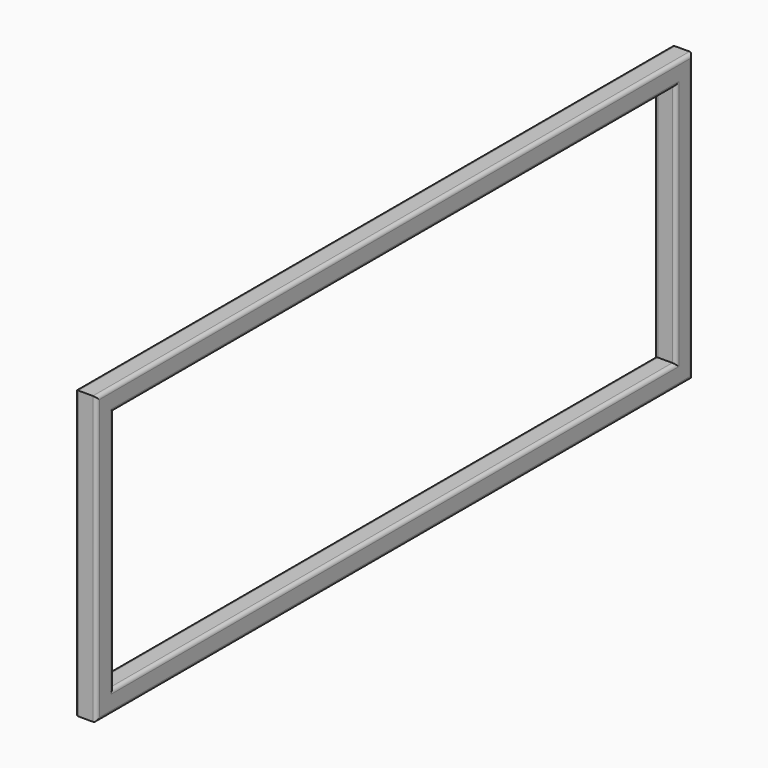
from build123d import *


with BuildPart() as f2:
    # F2: sweep along a path in F0
    with BuildLine(Plane.YZ) as f2_path:
        Line((-660.4, -254), (660.4, -254))
        Line((660.4, -254), (660.4, 254))
        Line((660.4, 254), (-660.4, 254))
        Line((-660.4, 254), (-660.4, -254))
    # F1 (on Front) → F2 (sweep)
    with BuildSketch(Plane.XZ):
        with BuildLine():
            Line((-12.7, -254), (0, -254))
            Line((0, -254), (12.7, -254))
            ThreePointArc((12.7, -254), (17.1901280605, -252.1401280605), (19.05, -247.65))
            Line((19.05, -247.65), (19.05, -222.25))
            ThreePointArc((19.05, -222.25), (17.1901280605, -217.7598719395), (12.7, -215.9))
            Line((12.7, -215.9), (0, -215.9))
            Line((0, -215.9), (-12.7, -215.9))
            ThreePointArc((-12.7, -215.9), (-17.1901280605, -217.7598719395), (-19.05, -222.25))
            Line((-19.05, -222.25), (-19.05, -247.65))
            ThreePointArc((-19.05, -247.65), (-17.1901280605, -252.1401280605), (-12.7, -254))
        make_face()
        with BuildLine():
            ThreePointArc((-15.875, -222.25), (-14.9450640303, -220.0049359697), (-12.7, -219.075))
            Line((-12.7, -219.075), (0, -219.075))
            Line((0, -219.075), (12.7, -219.075))
            ThreePointArc((12.7, -219.075), (14.9450640303, -220.0049359697), (15.875, -222.25))
            Line((15.875, -222.25), (15.875, -247.65))
            ThreePointArc((15.875, -247.65), (14.9450640303, -249.8950640303), (12.7, -250.825))
            Line((12.7, -250.825), (0, -250.825))
            Line((0, -250.825), (-12.7, -250.825))
            ThreePointArc((-12.7, -250.825), (-14.9450640303, -249.8950640303), (-15.875, -247.65))
            Line((-15.875, -247.65), (-15.875, -222.25))
        make_face(mode=Mode.SUBTRACT)
        with BuildLine():
            Line((0, -219.075), (-12.7, -219.075))
            ThreePointArc((-12.7, -219.075), (-14.9450640303, -220.0049359697), (-15.875, -222.25))
            Line((-15.875, -222.25), (-15.875, -247.65))
            ThreePointArc((-15.875, -247.65), (-14.9450640303, -249.8950640303), (-12.7, -250.825))
            Line((-12.7, -250.825), (0, -250.825))
            Line((0, -250.825), (12.7, -250.825))
            ThreePointArc((12.7, -250.825), (14.9450640303, -249.8950640303), (15.875, -247.65))
            Line((15.875, -247.65), (15.875, -222.25))
            ThreePointArc((15.875, -222.25), (14.9450640303, -220.0049359697), (12.7, -219.075))
            Line((12.7, -219.075), (0, -219.075))
        make_face()
    sweep(path=f2_path.line, transition=Transition.RIGHT)


solid = f2.part
